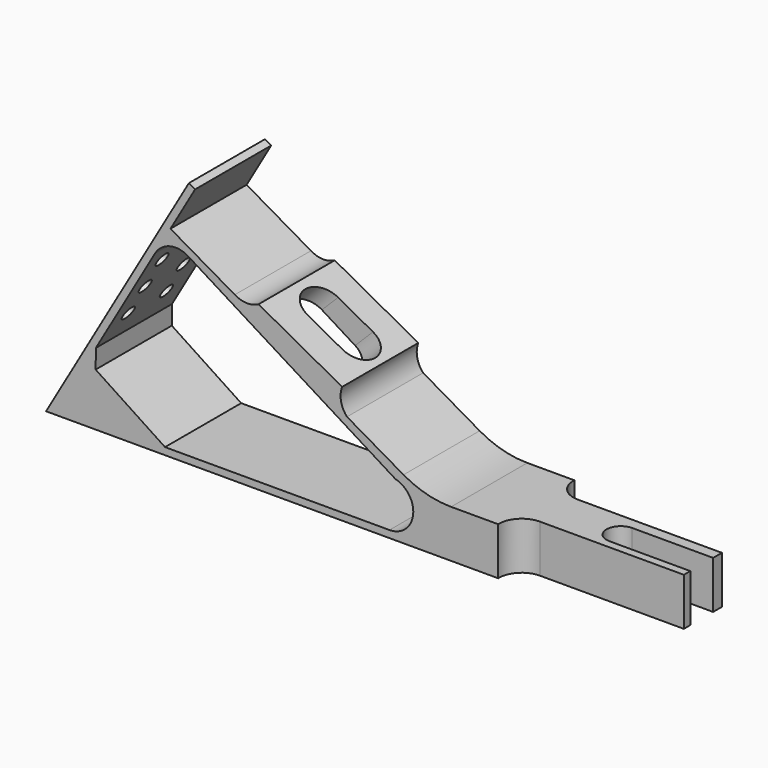
from build123d import *

# Parameters (mm, degrees)
F1_DEPTH  = 20
F4_DEPTH  = 50
F5_W      = 17
F5_H      = 6
F6_DEPTH  = 25
F8_R      = 4.25
F8_R_2    = 1.5
F9_DEPTH  = 25
F10_R     = 5.5
F11_DEPTH = 1.5


with BuildPart() as f1:
    # F0 (on Front) → F1 (new body)
    with BuildSketch(Plane.XZ):
        with BuildLine():
            Line((30, 51.9615242271), (0, 0))
            Line((0, 0), (130, 0))
            Line((130, 0), (130, 10))
            Line((130, 10), (85.1020127108, 10))
            ThreePointArc((85.1020127108, 10), (79.9256318088, 10.6814834742), (75.1020127108, 12.6794919243))
            Line((75.1020127108, 12.6794919243), (63.2290110083, 19.5343726533))
            ThreePointArc((63.2290110083, 19.5343726533), (61.9689506821, 21.9921089772), (62.2059384915, 24.7438459998))
            Line((62.2059384915, 24.7438459998), (44.644568833, 34.3145458549))
            ThreePointArc((44.644568833, 34.3145458549), (42.1322366307, 33.719194316), (39.6578564006, 34.4565538122))
            Line((39.6578564006, 34.4565538122), (26.1336276699, 42.2647709104))
            Line((26.1336276699, 42.2647709104), (31.2990381057, 51.2115242271))
            Line((31.2990381057, 51.2115242271), (30, 51.9615242271))
        make_face()
        with BuildLine():
            Line((10.4157161817, 11.1009099437), (10.4642531461, 15.1246181124))
            Line((10.4642531461, 15.1246181124), (22.8849254207, 36.637853556))
            ThreePointArc((22.8849254207, 36.637853556), (25.9989331967, 38.9877044803), (29.8532581245, 38.3851904586))
            Line((29.8532581245, 38.3851904586), (73.3850632782, 11.3456928945))
            ThreePointArc((73.3850632782, 11.3456928945), (77.1137537202, 5.8788979441), (72.1524804727, 1.5))
            Line((72.1524804727, 1.5), (24.9912310392, 1.5))
            Line((24.9912310392, 1.5), (10.4157161817, 11.1009099437))
        make_face(mode=Mode.SUBTRACT)
    extrude(amount=F1_DEPTH)

    # F3 (on face) → F4 (cut)
    with BuildSketch(Plane(origin=(70, 0, 70), x_dir=(0.7071067812, 0, -0.7071067812), z_dir=(0.7071067812, 0, 0.7071067812))):
        with BuildLine():
            ThreePointArc((13.0375107105, -5.6630554804), (9.0375107105, -9.6630554804), (13.0375107105, -13.6630554804))
            Line((13.0375107105, -13.6630554804), (21.0375107105, -13.6630554804))
            ThreePointArc((21.0375107105, -13.6630554804), (25.0375107105, -9.6630554804), (21.0375107105, -5.6630554804))
            Line((21.0375107105, -5.6630554804), (13.0375107105, -5.6630554804))
        make_face()
    extrude(amount=-F4_DEPTH, mode=Mode.SUBTRACT)

    # F5 (on Top) → F6 (cut)
    with BuildSketch(Plane.XY):
        with BuildLine():
            Line((130, 0), (95, 0))
            ThreePointArc((95, 0), (96.2962522412, -3.5190565155), (99.7416600585, -5))
            Line((99.7416600585, -5), (130, -5))
            Line((130, -5), (130, 0))
        make_face()
        with BuildLine():
            ThreePointArc((99.7416600585, -15), (96.2962522412, -16.4809434845), (95, -20))
            Line((95, -20), (130, -20))
            Line((130, -20), (130, -15))
            Line((130, -15), (99.7416600585, -15))
        make_face()
        with Locations((121.5, -10.3095373929)):
            Rectangle(F5_W, F5_H)
        with BuildLine():
            ThreePointArc((113, -7.3095373929), (110, -10.3095373929), (113, -13.3095373929))
            Line((113, -13.3095373929), (113, -7.3095373929))
        make_face()
    extrude(amount=F6_DEPTH, mode=Mode.SUBTRACT)

    # F8 (on face) → F9 (cut)
    with BuildSketch(Plane(origin=(0, 0, 0), x_dir=(0, 1, 0), z_dir=(0.8660254038, 0, -0.5))):
        with Locations((-10, 8.6775068194)):
            Circle(F8_R)
        with Locations((-5.6418100949, 25)):
            Circle(F8_R_2)
        with Locations((-15.6433817795, 25)):
            Circle(F8_R_2)
        with Locations((-5.5963639886, 31.9998524735)):
            Circle(F8_R_2)
        with Locations((-5.5509178823, 38.9997049471)):
            Circle(F8_R_2)
        with Locations((-15.5971498309, 31.9998473274)):
            Circle(F8_R_2)
        with Locations((-15.5509178823, 38.9996946548)):
            Circle(F8_R_2)
    extrude(amount=F9_DEPTH, mode=Mode.SUBTRACT)

    # F10 (on face) → F11 (cut)
    with BuildSketch(Plane(origin=(0, 0, 0), x_dir=(0, 1, 0), z_dir=(0.8660254038, 0, -0.5))):
        with Locations((-10, 8.6775068194)):
            Circle(F10_R)
    extrude(amount=F11_DEPTH, mode=Mode.SUBTRACT)


solid = f1.part
